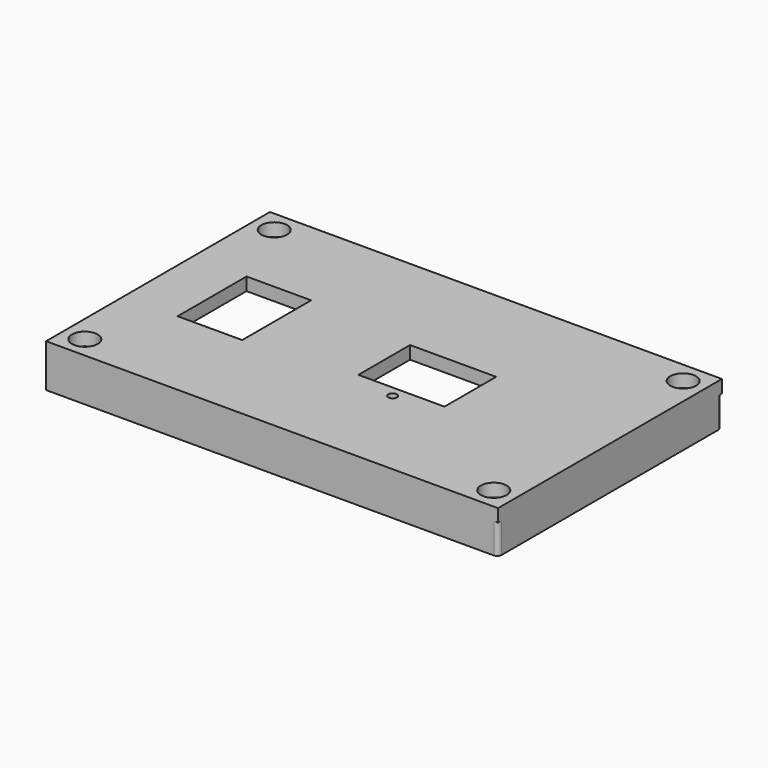
from build123d import *

# Parameters (mm, degrees)
SKETCH007_W   = 105
SKETCH007_H   = 10
PAD006_DEPTH  = 2
FILLET006_R   = 1
SKETCH008_W   = 105
SKETCH008_H   = 10
PAD007_DEPTH  = 2
FILLET012_R   = 1
FILLET014_R   = 1
FILLET023_R   = 1
SKETCH009_W   = 65
SKETCH009_H   = 10
PAD008_DEPTH  = 2
FILLET013_R   = 1
FILLET020_R   = 1
FILLET027_R   = 1
SKETCH010_W   = 65
SKETCH010_H   = 10
PAD009_DEPTH  = 2
FILLET007_R   = 1
FILLET011_R   = 1
FILLET025_R   = 1
SKETCH006_W   = 105
SKETCH006_H   = 65
SKETCH006_R   = 3
SKETCH006_R_2 = 1
SKETCH006_W_2 = 15
SKETCH006_H_2 = 20
SKETCH006_W_3 = 20
SKETCH006_H_3 = 15
PAD005_DEPTH  = 3


with BuildPart() as body006:
    # Sketch007 → Pad006 (new body)
    with BuildSketch(Plane.XZ):
        with Locations((0, 5)):
            Rectangle(SKETCH007_W, SKETCH007_H)
    extrude(amount=PAD006_DEPTH)

    # Fillet006
    fillet006_edges = [body006.edges().sort_by_distance(p)[0] for p in [
        (52.5, -2, 5),
    ]]
    fillet(fillet006_edges, radius=FILLET006_R)


with BuildPart() as body006_1:
    # Body006 placement: moved
    add(body006.part.moved(Location((0, -30.5, 36))))


with BuildPart() as body007:
    # Sketch008 → Pad007 (new body)
    with BuildSketch(Plane.XZ):
        with Locations((0, 5)):
            Rectangle(SKETCH008_W, SKETCH008_H)
    extrude(amount=PAD007_DEPTH)

    # Fillet012
    fillet012_edges = [body007.edges().sort_by_distance(p)[0] for p in [
        (52.5, 0, 5),
    ]]
    fillet(fillet012_edges, radius=FILLET012_R)

    # Fillet014
    fillet014_edges = [body007.edges().sort_by_distance(p)[0] for p in [
        (-52.5, 0, 5),
    ]]
    fillet(fillet014_edges, radius=FILLET014_R)

    # Fillet023
    fillet023_edges = [body007.edges().sort_by_distance(p)[0] for p in [
        (0, 0, 10),
    ]]
    fillet(fillet023_edges, radius=FILLET023_R)


with BuildPart() as body007_1:
    # Body007 placement: moved
    add(body007.part.moved(Location((0, 32.5, 36))))


with BuildPart() as body008:
    # Sketch009 → Pad008 (new body)
    with BuildSketch(Plane.YZ):
        with Locations((0, 5)):
            Rectangle(SKETCH009_W, SKETCH009_H)
    extrude(amount=PAD008_DEPTH)

    # Fillet013
    fillet013_edges = [body008.edges().sort_by_distance(p)[0] for p in [
        (0, 32.5, 5),
    ]]
    fillet(fillet013_edges, radius=FILLET013_R)

    # Fillet020
    fillet020_edges = [body008.edges().sort_by_distance(p)[0] for p in [
        (0, -32.5, 5),
    ]]
    fillet(fillet020_edges, radius=FILLET020_R)

    # Fillet027
    fillet027_edges = [body008.edges().sort_by_distance(p)[0] for p in [
        (0, 0, 10),
    ]]
    fillet(fillet027_edges, radius=FILLET027_R)


with BuildPart() as body008_1:
    # Body008 placement: moved
    add(body008.part.moved(Location((-52.5, 0, 36))))


with BuildPart() as body009:
    # Sketch010 → Pad009 (new body)
    with BuildSketch(Plane.YZ):
        with Locations((0, 5)):
            Rectangle(SKETCH010_W, SKETCH010_H)
    extrude(amount=PAD009_DEPTH)

    # Fillet007
    fillet007_edges = [body009.edges().sort_by_distance(p)[0] for p in [
        (2, -32.5, 5),
    ]]
    fillet(fillet007_edges, radius=FILLET007_R)

    # Fillet011
    fillet011_edges = [body009.edges().sort_by_distance(p)[0] for p in [
        (2, 32.5, 5),
    ]]
    fillet(fillet011_edges, radius=FILLET011_R)

    # Fillet025
    fillet025_edges = [body009.edges().sort_by_distance(p)[0] for p in [
        (2, 0, 10),
    ]]
    fillet(fillet025_edges, radius=FILLET025_R)


with BuildPart() as body009_1:
    # Body009 placement: moved
    add(body009.part.moved(Location((50.5, 0, 36))))


with BuildPart() as fusion:
    # Sketch006 → Pad005 (new body)
    with BuildSketch(Plane.XY):
        Rectangle(SKETCH006_W, SKETCH006_H)
        with Locations((-47.5, 27.5)):
            Circle(SKETCH006_R, mode=Mode.SUBTRACT)
        with Locations((47.5, 27.5)):
            Circle(SKETCH006_R, mode=Mode.SUBTRACT)
        with Locations((-47.5, -27.5)):
            Circle(SKETCH006_R, mode=Mode.SUBTRACT)
        with Locations((47.5, -27.5)):
            Circle(SKETCH006_R, mode=Mode.SUBTRACT)
        with Locations((10, -10)):
            Circle(SKETCH006_R_2, mode=Mode.SUBTRACT)
        with Locations((-32.489298, 0.067564)):
            Rectangle(SKETCH006_W_2, SKETCH006_H_2, mode=Mode.SUBTRACT)
        with Locations((10, 0.066365)):
            Rectangle(SKETCH006_W_3, SKETCH006_H_3, mode=Mode.SUBTRACT)
    extrude(amount=PAD005_DEPTH)


with BuildPart() as fusion_1:
    # Body005 placement: moved
    add(fusion.part.moved(Location((0, 0, 43))))

    # Fusion: union Body006, Body007, Body008, Body009
    add(body006_1.part)
    add(body007_1.part)
    add(body008_1.part)
    add(body009_1.part)


with BuildPart() as fusion_2:
    # Fusion placement: moved
    add(fusion_1.part.moved(Location((0, 0, -6))))


solid = fusion_2.part
